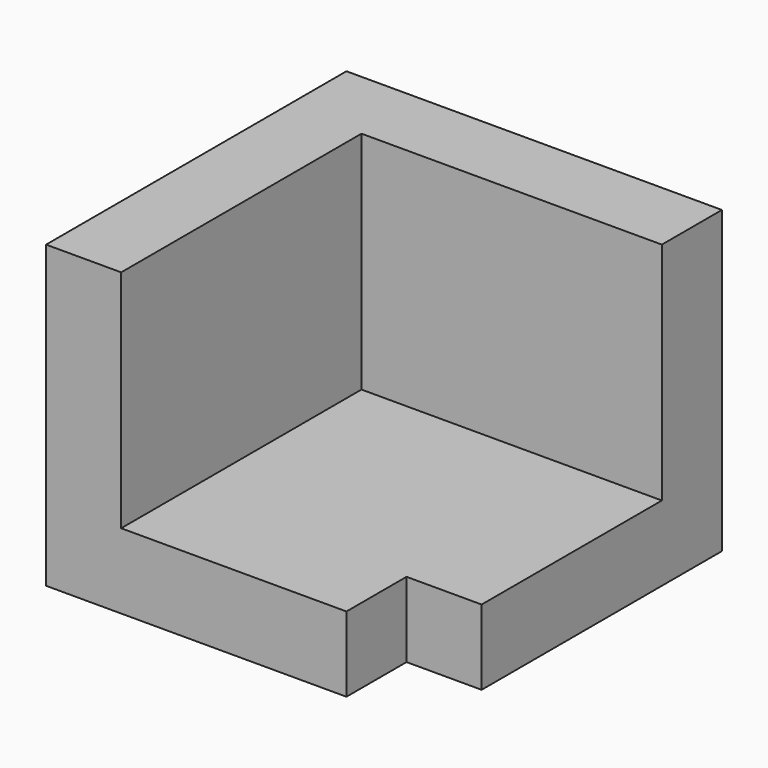
from build123d import *

# Parameters (mm, degrees)
F0_W      = 12.7
F0_H      = 50.8
F1_DEPTH  = 63.5
F2_W      = 63.5
F2_H      = 12.7
F3_DEPTH  = 50.8
F4_W      = 12.7
F4_H      = 38.1
F5_DEPTH  = 50.8
F6_W      = 12.7
F6_H      = 12.7
F7_DEPTH  = 12.7
F8_W      = 12.7
F8_H      = 12.7
F9_DEPTH  = 12.7
F10_W     = 12.7
F10_H     = 63.5
F11_DEPTH = 12.7
F12_W     = 50.8
F12_H     = 12.7
F13_DEPTH = 12.7
F14_W     = 12.7
F14_H     = 50.8
F15_DEPTH = 12.7
F16_W     = 12.7
F16_H     = 50.8
F17_DEPTH = 12.7
F18_W     = 12.7
F18_H     = 12.7
F19_DEPTH = 25.4
F20_W     = 12.7
F20_H     = 12.7
F21_DEPTH = 12.7
F22_W     = 12.7
F22_H     = 63.5
F23_DEPTH = 12.7
F24_W     = 12.7
F24_H     = 38.1
F25_DEPTH = 12.7
F26_W     = 12.7
F26_H     = 38.1
F27_DEPTH = 12.7
F28_W     = 12.7
F28_H     = 12.7
F29_DEPTH = 12.7


with BuildPart() as f1:
    # F0 (on Front) → F1 (new body)
    with BuildSketch(Plane.XZ):
        with Locations((6.35, -25.4)):
            Rectangle(F0_W, F0_H)
    extrude(amount=F1_DEPTH)

    # F2 (on face) → F3 (join)
    with BuildSketch(Plane.YZ.offset(12.7)):
        with Locations((-31.75, -44.45)):
            Rectangle(F2_W, F2_H)
    extrude(amount=F3_DEPTH)

    # F4 (on face) → F5 (join)
    with BuildSketch(Plane.YZ.offset(12.7)):
        with Locations((-6.35, -19.05)):
            Rectangle(F4_W, F4_H)
    extrude(amount=F5_DEPTH)

    # F6 (on face) → F7 (join)
    with BuildSketch(Plane.YZ.offset(63.5)):
        with Locations((-57.15, -44.45)):
            Rectangle(F6_W, F6_H)
    extrude(amount=-F7_DEPTH)

    # F8 (on face) → F9 (cut)
    with BuildSketch(Plane.XY.offset(-38.1)):
        with Locations((57.15, -57.15)):
            Rectangle(F8_W, F8_H)
    extrude(amount=-F9_DEPTH, mode=Mode.SUBTRACT)

    # F10 (on face) → F11 (join)
    with BuildSketch(Plane.XY):
        with Locations((6.35, -31.75)):
            Rectangle(F10_W, F10_H)
    extrude(amount=F11_DEPTH)

    # F12 (on face) → F13 (join)
    with BuildSketch(Plane.XY):
        with Locations((38.1, -6.35)):
            Rectangle(F12_W, F12_H)
    extrude(amount=F13_DEPTH)

    # F14 (on face) → F15 (join)
    with BuildSketch(Plane.XZ.offset(63.5)):
        Polygon((50.8, -50.8), (50.8, -38.1), (12.7, -38.1), (0, -38.1), (0, -50.8), align=None)
        with Locations((6.35, -12.7)):
            Rectangle(F14_W, F14_H)
    extrude(amount=F15_DEPTH)

    # F16 (on face) → F17 (join)
    with BuildSketch(Plane.YZ.offset(63.5)):
        Polygon((-50.8, -38.1), (-50.8, -50.8), (0, -50.8), (0, -38.1), (-12.7, -38.1), align=None)
        with Locations((-6.35, -12.7)):
            Rectangle(F16_W, F16_H)
    extrude(amount=F17_DEPTH)

    # F18 (on face) → F19 (join)
    with BuildSketch(Plane.YZ.offset(50.8)):
        with Locations((-57.15, -44.45)):
            Rectangle(F18_W, F18_H)
    extrude(amount=F19_DEPTH)

    # F20 (on face) → F21 (join)
    with BuildSketch(Plane.YZ.offset(50.8)):
        with Locations((-69.85, -44.45)):
            Rectangle(F20_W, F20_H)
    extrude(amount=F21_DEPTH)

    # F22 (on face) → F23 (cut)
    with BuildSketch(Plane.XY.offset(12.7)):
        Polygon((76.2, -12.7), (76.2, 0), (0, 0), (0, -12.7), (12.7, -12.7), align=None)
        with Locations((6.35, -44.45)):
            Rectangle(F22_W, F22_H)
    extrude(amount=-F23_DEPTH, mode=Mode.SUBTRACT)

    # F24 (on face) → F25 (cut)
    with BuildSketch(Plane.YZ.offset(76.2)):
        Polygon((-63.5, -38.1), (-63.5, -50.8), (0, -50.8), (0, -38.1), (-12.7, -38.1), align=None)
        with Locations((-6.35, -19.05)):
            Rectangle(F24_W, F24_H)
    extrude(amount=-F25_DEPTH, mode=Mode.SUBTRACT)

    # F26 (on face) → F27 (cut)
    with BuildSketch(Plane.XZ.offset(76.2)):
        Polygon((63.5, -50.8), (63.5, -38.1), (12.7, -38.1), (0, -38.1), (0, -50.8), align=None)
        with Locations((6.35, -19.05)):
            Rectangle(F26_W, F26_H)
    extrude(amount=-F27_DEPTH, mode=Mode.SUBTRACT)

    # F28 (on face) → F29 (cut)
    with BuildSketch(Plane.YZ.offset(63.5)):
        with Locations((-57.15, -44.45)):
            Rectangle(F28_W, F28_H)
    extrude(amount=-F29_DEPTH, mode=Mode.SUBTRACT)


solid = f1.part
